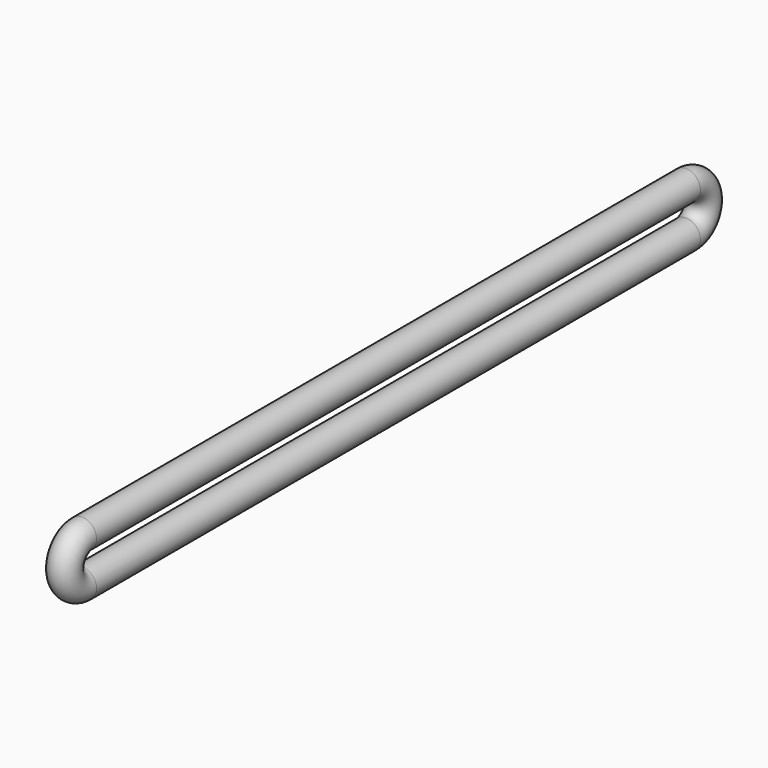
from build123d import *

# Parameters (mm, degrees)
F1_R = 4


with BuildPart() as f2:
    # F2: sweep along a path in F0
    with BuildLine(Plane.YZ) as f2_path:
        Line((0, 0), (208, 0))
        ThreePointArc((208, 0), (214, 6), (208, 12))
        Line((208, 12), (0, 12))
        ThreePointArc((0, 12), (-6, 6), (0, 0))
    # F1 (on Front) → F2 (sweep)
    with BuildSketch(Plane.XZ):
        Circle(F1_R)
    sweep(path=f2_path.line)


solid = f2.part
